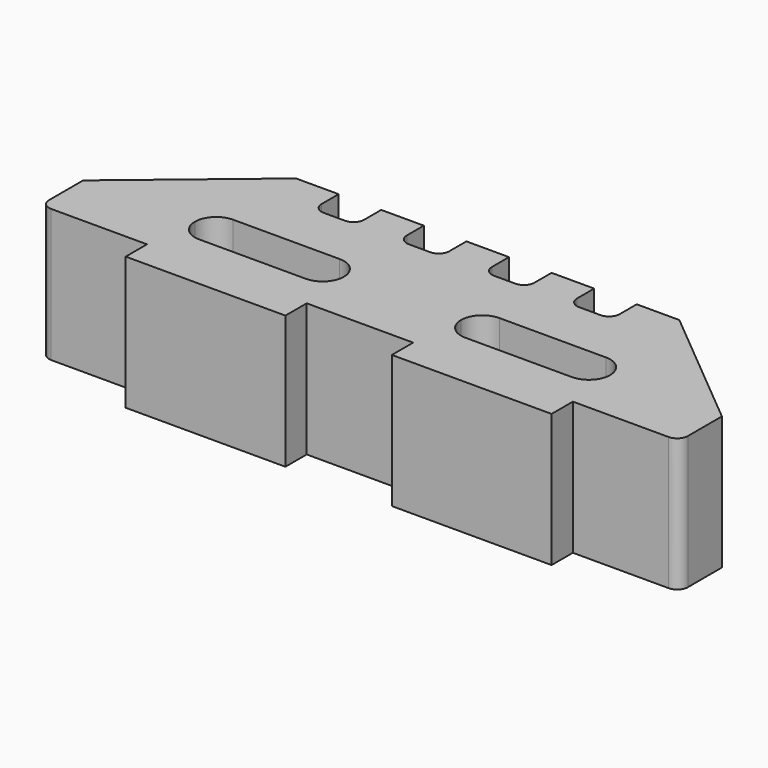
from build123d import *

# Parameters (mm, degrees)
F1_DEPTH = 25


with BuildPart() as f1:
    # F0 (on Top) → F1 (new body)
    with BuildSketch(Plane.XY):
        with BuildLine():
            ThreePointArc((-60, -41.373659), (-59.414214, -42.787873), (-58, -43.373659))
            Line((-58, -43.373659), (-40, -43.373659))
            Line((-40, -43.373659), (-40, -48.373659))
            Line((-40, -48.373659), (-10, -48.373659))
            Line((-10, -48.373659), (-10, -43.373659))
            Line((-10, -43.373659), (10, -43.373659))
            Line((10, -43.373659), (10, -48.373659))
            Line((10, -48.373659), (40, -48.373659))
            Line((40, -48.373659), (40, -43.373659))
            Line((40, -43.373659), (58, -43.373659))
            ThreePointArc((58, -43.373659), (59.414214, -42.787873), (60, -41.373659))
            Line((60, -41.373659), (60, -33.373659))
            Line((60, -33.373659), (36, -13.373659))
            Line((36, -13.373659), (28, -13.373659))
            Line((28, -13.373659), (28, -17.373659))
            ThreePointArc((28, -17.373659), (27.414214, -18.787873), (26, -19.373659))
            Line((26, -19.373659), (22, -19.373659))
            ThreePointArc((22, -19.373659), (20.585786, -18.787873), (20, -17.373659))
            Line((20, -17.373659), (20, -13.373659))
            Line((20, -13.373659), (12, -13.373659))
            Line((12, -13.373659), (12, -17.373659))
            ThreePointArc((12, -17.373659), (11.414214, -18.787873), (10, -19.373659))
            Line((10, -19.373659), (6, -19.373659))
            ThreePointArc((6, -19.373659), (4.585786, -18.787873), (4, -17.373659))
            Line((4, -17.373659), (4, -13.373659))
            Line((4, -13.373659), (-4, -13.373659))
            Line((-4, -13.373659), (-4, -17.373659))
            ThreePointArc((-4, -17.373659), (-4.585786, -18.787873), (-6, -19.373659))
            Line((-6, -19.373659), (-10, -19.373659))
            ThreePointArc((-10, -19.373659), (-11.414214, -18.787873), (-12, -17.373659))
            Line((-12, -17.373659), (-12, -13.373659))
            Line((-12, -13.373659), (-20, -13.373659))
            Line((-20, -13.373659), (-20, -17.373659))
            ThreePointArc((-20, -17.373659), (-20.585786, -18.787873), (-22, -19.373659))
            Line((-22, -19.373659), (-26, -19.373659))
            ThreePointArc((-26, -19.373659), (-27.414214, -18.787873), (-28, -17.373659))
            Line((-28, -17.373659), (-28, -13.373659))
            Line((-28, -13.373659), (-36, -13.373659))
            Line((-36, -13.373659), (-60, -33.373659))
            Line((-60, -33.373659), (-60, -41.373659))
        make_face()
        with BuildLine():
            Line((-35, -29.373659), (-15, -29.373659))
            ThreePointArc((-15, -29.373659), (-12.171573, -30.545232), (-11, -33.373659))
            ThreePointArc((-11, -33.373659), (-12.171573, -36.202086), (-15, -37.373659))
            Line((-15, -37.373659), (-35, -37.373659))
            ThreePointArc((-35, -37.373659), (-37.828427, -36.202086), (-39, -33.373659))
            ThreePointArc((-39, -33.373659), (-37.828427, -30.545232), (-35, -29.373659))
        make_face(mode=Mode.SUBTRACT)
        with BuildLine():
            ThreePointArc((11, -33.373659), (12.171573, -30.545232), (15, -29.373659))
            Line((15, -29.373659), (35, -29.373659))
            ThreePointArc((35, -29.373659), (37.828427, -30.545232), (39, -33.373659))
            ThreePointArc((39, -33.373659), (37.828427, -36.202086), (35, -37.373659))
            Line((35, -37.373659), (15, -37.373659))
            ThreePointArc((15, -37.373659), (12.171573, -36.202086), (11, -33.373659))
        make_face(mode=Mode.SUBTRACT)
    extrude(amount=F1_DEPTH)


solid = f1.part
